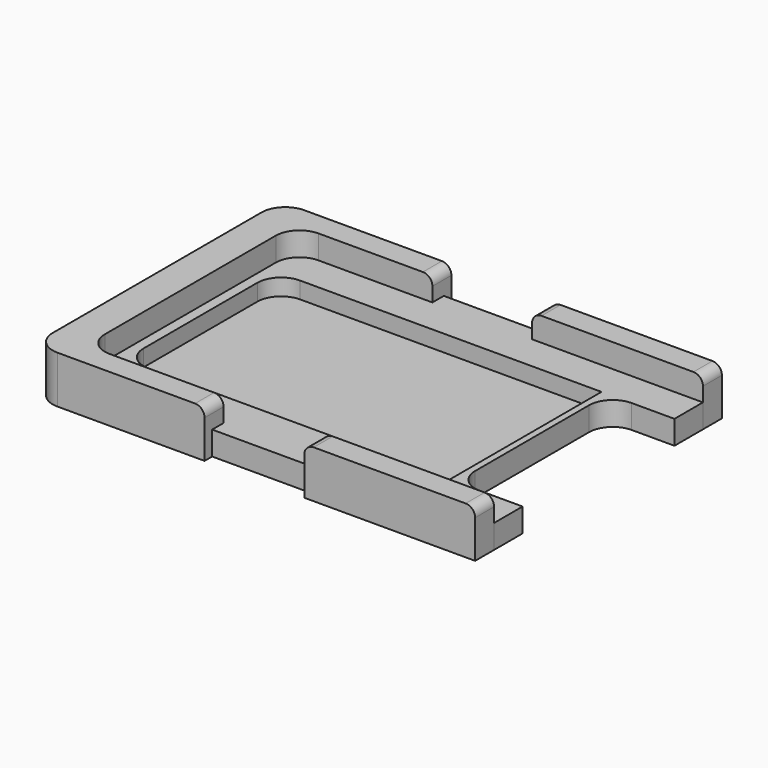
from build123d import *

# Parameters (mm, degrees)
F0_W     = 21
F0_H     = 5
F0_H_2   = 3
F1_DEPTH = 5
F2_DEPTH = 1.5
F3_DEPTH = 10
F4_R     = 2
F4_2_R   = 2
F4_3_R   = 2
F5_SIZE  = 3.5


with BuildPart() as f1:
    # F0 (on Top) → F1 (new body)
    with BuildSketch(Plane.XY):
        with BuildLine():
            Line((10.5, -27.5), (46.5, -27.5))
            Line((46.5, -27.5), (46.5, -20))
            Line((46.5, -20), (37.5, -20))
            ThreePointArc((37.5, -20), (33.9644660941, -18.5355339059), (32.5, -15))
            Line((32.5, -15), (32.5, 15))
            ThreePointArc((32.5, 15), (33.9644660941, 18.5355339059), (37.5, 20))
            Line((37.5, 20), (46.5, 20))
            Line((46.5, 20), (46.5, 27.5))
            Line((46.5, 27.5), (10.5, 27.5))
            Line((10.5, 27.5), (-10.5, 27.5))
            Line((-10.5, 27.5), (-34.5, 27.5))
            ThreePointArc((-34.5, 27.5), (-38.0355339059, 26.0355339059), (-39.5, 22.5))
            Line((-39.5, 22.5), (-39.5, -22.5))
            ThreePointArc((-39.5, -22.5), (-38.0355339059, -26.0355339059), (-34.5, -27.5))
            Line((-34.5, -27.5), (-10.5, -27.5))
            Line((-10.5, -27.5), (-10.5, -22.5))
            Line((-10.5, -22.5), (10.5, -22.5))
            Line((10.5, -22.5), (10.5, -27.5))
        make_face()
        with BuildLine():
            Line((-32.3782377529, 20), (27.6217622471, 20))
            Line((27.6217622471, 20), (27.6217622471, -20))
            Line((27.6217622471, -20), (-32.3782377529, -20))
            ThreePointArc((-32.3782377529, -20), (-35.9137716589, -18.5355339059), (-37.3782377529, -15))
            Line((-37.3782377529, -15), (-37.3782377529, 15))
            ThreePointArc((-37.3782377529, 15), (-35.9137716589, 18.5355339059), (-32.3782377529, 20))
        make_face(mode=Mode.SUBTRACT)
        with Locations((0, -25)):
            Rectangle(F0_W, F0_H)
        with Locations((0, 29)):
            Rectangle(F0_W, F0_H_2)
        with Locations((0, -29)):
            Rectangle(F0_W, F0_H_2)
    extrude(amount=F1_DEPTH)

    # F5
    f5_edges = [f1.edges().sort_by_distance(p)[0] for p in [
        (27.621762, 0, 5),
    ]]
    chamfer(f5_edges, length=F5_SIZE)


with BuildPart() as f2:
    # F0 (on Top) → F2 (new body)
    with BuildSketch(Plane.XY):
        with BuildLine():
            Line((27.6217622471, -20), (27.6217622471, 20))
            Line((27.6217622471, 20), (-32.3782377529, 20))
            ThreePointArc((-32.3782377529, 20), (-35.9137716589, 18.5355339059), (-37.3782377529, 15))
            Line((-37.3782377529, 15), (-37.3782377529, -15))
            ThreePointArc((-37.3782377529, -15), (-35.9137716589, -18.5355339059), (-32.3782377529, -20))
            Line((-32.3782377529, -20), (27.6217622471, -20))
        make_face()
    extrude(amount=F2_DEPTH)


with BuildPart() as f3:
    # F0 (on Top) → F3 (new body)
    with BuildSketch(Plane.XY):
        Polygon((10.5, -32.5), (46.5, -32.5), (46.5, -27.5), (10.5, -27.5), (10.5, -30.5), align=None)
    extrude(amount=F3_DEPTH)

    # F4#2
    f4_2_edges = [f3.edges().sort_by_distance(p)[0] for p in [
        (46.5, -30, 10),
        (10.5, -30, 10),
    ]]
    fillet(f4_2_edges, radius=F4_2_R)


with BuildPart() as f3b:
    # F0 (on Top) → F3, piece 2 (new body)
    with BuildSketch(Plane.XY):
        with BuildLine():
            Line((-41.5, -32.5), (-10.5, -32.5))
            Line((-10.5, -32.5), (-10.5, -30.5))
            Line((-10.5, -30.5), (-10.5, -27.5))
            Line((-10.5, -27.5), (-34.5, -27.5))
            ThreePointArc((-34.5, -27.5), (-38.0355339059, -26.0355339059), (-39.5, -22.5))
            Line((-39.5, -22.5), (-39.5, 22.5))
            ThreePointArc((-39.5, 22.5), (-38.0355339059, 26.0355339059), (-34.5, 27.5))
            Line((-34.5, 27.5), (-10.5, 27.5))
            Line((-10.5, 27.5), (-10.5, 30.5))
            Line((-10.5, 30.5), (-10.5, 32.5))
            Line((-10.5, 32.5), (-41.5, 32.5))
            ThreePointArc((-41.5, 32.5), (-45.0355339059, 31.0355339059), (-46.5, 27.5))
            Line((-46.5, 27.5), (-46.5, -27.5))
            ThreePointArc((-46.5, -27.5), (-45.0355339059, -31.0355339059), (-41.5, -32.5))
        make_face()
        with BuildLine():
            Line((-41.5, -32.5), (-10.5, -32.5))
            Line((-10.5, -32.5), (-10.5, -30.5))
            Line((-10.5, -30.5), (-10.5, -27.5))
            Line((-10.5, -27.5), (-34.5, -27.5))
            ThreePointArc((-34.5, -27.5), (-38.0355339059, -26.0355339059), (-39.5, -22.5))
            Line((-39.5, -22.5), (-39.5, 22.5))
            ThreePointArc((-39.5, 22.5), (-38.0355339059, 26.0355339059), (-34.5, 27.5))
            Line((-34.5, 27.5), (-10.5, 27.5))
            Line((-10.5, 27.5), (-10.5, 30.5))
            Line((-10.5, 30.5), (-10.5, 32.5))
            Line((-10.5, 32.5), (-41.5, 32.5))
            ThreePointArc((-41.5, 32.5), (-45.0355339059, 31.0355339059), (-46.5, 27.5))
            Line((-46.5, 27.5), (-46.5, -27.5))
            ThreePointArc((-46.5, -27.5), (-45.0355339059, -31.0355339059), (-41.5, -32.5))
        make_face()
    extrude(amount=F3_DEPTH)

    # F4#3
    f4_3_edges = [f3b.edges().sort_by_distance(p)[0] for p in [
        (-10.5, -30, 10),
        (-10.5, 30, 10),
    ]]
    fillet(f4_3_edges, radius=F4_3_R)


with BuildPart() as f3c:
    # F0 (on Top) → F3, piece 3 (new body)
    with BuildSketch(Plane.XY):
        Polygon((10.5, 27.5), (46.5, 27.5), (46.5, 32.5), (10.5, 32.5), (10.5, 30.5), align=None)
    extrude(amount=F3_DEPTH)

    # F4
    f4_edges = [f3c.edges().sort_by_distance(p)[0] for p in [
        (46.5, 30, 10),
        (10.5, 30, 10),
    ]]
    fillet(f4_edges, radius=F4_R)


solid = Compound([f1.part, f2.part, f3.part, f3b.part, f3c.part])
